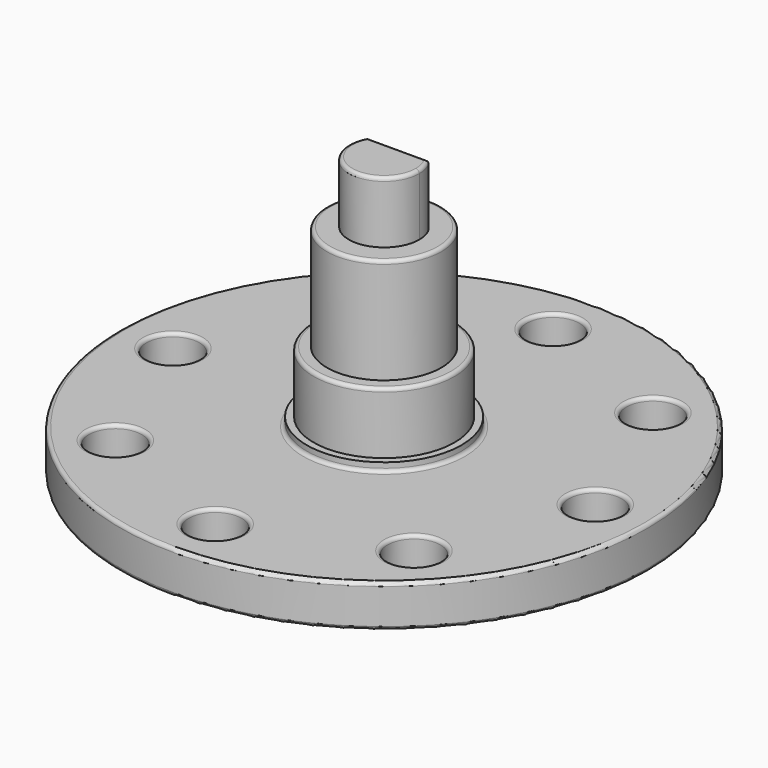
from build123d import *

# Parameters (mm, degrees)
F0_R     = 15
F0_R_2   = 1.5
F1_DEPTH = 2.4
F2_R     = 4
F3_DEPTH = 4
F4_R     = 4.4
F5_DEPTH = 0.5
F7_DEPTH = 9.5
F8_R     = 3.25
F9_DEPTH = 6
F10_R    = 0.2


with BuildPart() as f1:
    # F0 (on Top) → F1 (new body)
    with BuildSketch(Plane.XY):
        Circle(F0_R)
        with Locations((-8.4852813742, -8.4852813742)):
            Circle(F0_R_2, mode=Mode.SUBTRACT)
        with Locations((0, -12)):
            Circle(F0_R_2, mode=Mode.SUBTRACT)
        with Locations((8.4852813742, -8.4852813742)):
            Circle(F0_R_2, mode=Mode.SUBTRACT)
        with Locations((-12, 0)):
            Circle(F0_R_2, mode=Mode.SUBTRACT)
        with Locations((-8.4852813742, 8.4852813742)):
            Circle(F0_R_2, mode=Mode.SUBTRACT)
        with Locations((12, 0)):
            Circle(F0_R_2, mode=Mode.SUBTRACT)
        with Locations((0, 12)):
            Circle(F0_R_2, mode=Mode.SUBTRACT)
        with Locations((8.4852813742, 8.4852813742)):
            Circle(F0_R_2, mode=Mode.SUBTRACT)
    extrude(amount=F1_DEPTH)

    # F2 (on face) → F3 (join)
    with BuildSketch(Plane.XY.offset(2.4)):
        Circle(F2_R)
    extrude(amount=F3_DEPTH)

    # F4 (on face) → F5 (join)
    with BuildSketch(Plane.XY.offset(2.4)):
        Circle(F4_R)
    extrude(amount=F5_DEPTH)

    # F6 (on face) → F7 (join)
    with BuildSketch(Plane.XY.offset(6.4)):
        with BuildLine():
            Line((1.7320508076, 1), (-1.7320508076, 1))
            ThreePointArc((-1.7320508076, 1), (-0.5176380902, -1.9318516526), (2, 0))
            ThreePointArc((2, 0), (1.9318516526, 0.5176380902), (1.7320508076, 1))
        make_face()
    extrude(amount=F7_DEPTH)

    # F8 (on face) → F9 (join)
    with BuildSketch(Plane.XY.offset(6.4)):
        Circle(F8_R)
    extrude(amount=F9_DEPTH)

    # F10
    f10_edges = [f1.edges().sort_by_distance(p)[0] for p in [
        (0, 1, 15.9),
        (-0.517638, -1.931852, 15.9),
        (1.931852, 0.517638, 15.9),
        (-3.25, 0, 12.4),
        (-4, 0, 6.4),
        (-15, 0, 0),
        (-9.985281, -8.485281, 0),
        (-1.5, -12, 0),
        (6.985281, -8.485281, 0),
        (-13.5, 0, 0),
        (-9.985281, 8.485281, 0),
        (10.5, 0, 0),
        (-1.5, 12, 0),
        (6.985281, 8.485281, 0),
        (-15, 0, 2.4),
        (-9.985281, -8.485281, 2.4),
        (-1.5, -12, 2.4),
        (6.985281, -8.485281, 2.4),
        (-13.5, 0, 2.4),
        (-9.985281, 8.485281, 2.4),
        (-4.4, 0, 2.4),
        (10.5, 0, 2.4),
        (-1.5, 12, 2.4),
        (6.985281, 8.485281, 2.4),
    ]]
    fillet(f10_edges, radius=F10_R)


solid = f1.part
